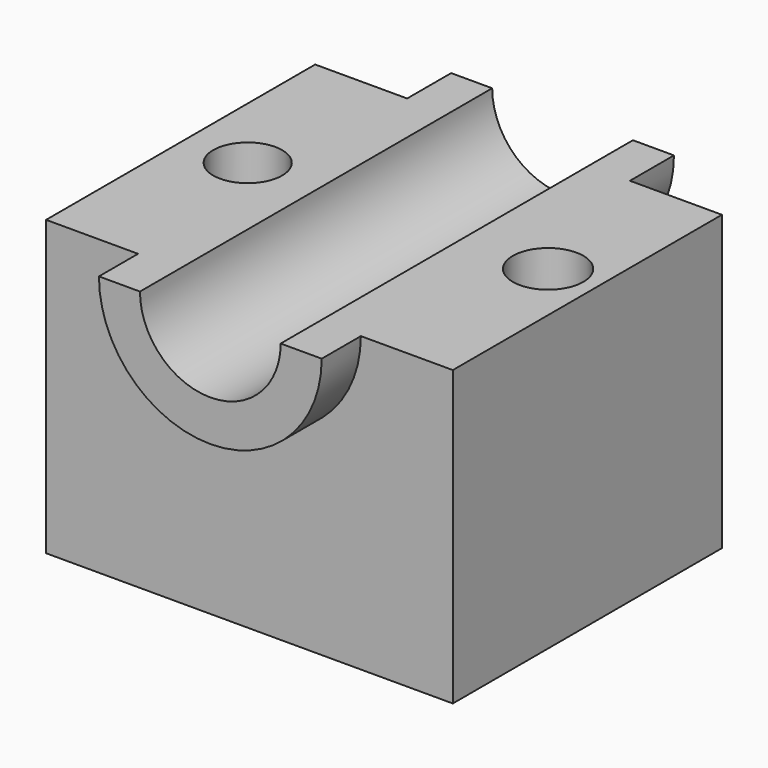
from build123d import *

# Parameters (mm, degrees)
F0_W     = 105.5908799171
F0_H     = 87.321691215
F1_DEPTH = 76.2
F3_DEPTH = 101.6
F4_DEPTH = 12.7
F5_DEPTH = 127
F6_R     = 8.9460405917
F7_DEPTH = 101.6
F6_R_2   = 9.1609397995
F8_DEPTH = 127


with BuildPart() as f1:
    # F0 (on Top) → F1 (new body)
    with BuildSketch(Plane.XY):
        with Locations((3.3811926842, 4.9695521593)):
            Rectangle(F0_W, F0_H)
    extrude(amount=F1_DEPTH)

    # F2 (on face) → F3 (join)
    with BuildSketch(Plane.XZ.offset(38.6912934482)):
        with BuildLine():
            ThreePointArc((-14.8835639872, 76.2), (3.3811926842, 57.9352433286), (21.6459493555, 76.2))
            Line((21.6459493555, 76.2), (-14.8835639872, 76.2))
        make_face()
        with BuildLine():
            ThreePointArc((-25.5366911298, 76.2), (3.3811926842, 47.282116186), (32.2990764981, 76.2))
            Line((32.2990764981, 76.2), (21.6459493555, 76.2))
            ThreePointArc((21.6459493555, 76.2), (3.3811926842, 57.9352433286), (-14.8835639872, 76.2))
            Line((-14.8835639872, 76.2), (-25.5366911298, 76.2))
        make_face()
    extrude(amount=-F3_DEPTH)

    # F2 (on face) → F4 (join)
    with BuildSketch(Plane.XZ.offset(38.6912934482)):
        with BuildLine():
            ThreePointArc((-25.5366911298, 76.2), (3.3811926842, 47.282116186), (32.2990764981, 76.2))
            Line((32.2990764981, 76.2), (21.6459493555, 76.2))
            ThreePointArc((21.6459493555, 76.2), (3.3811926842, 57.9352433286), (-14.8835639872, 76.2))
            Line((-14.8835639872, 76.2), (-25.5366911298, 76.2))
        make_face()
    extrude(amount=F4_DEPTH)

    # F5 (cut): a face of the model
    f5_faces = [f1.faces().sort_by_distance(p)[0] for p in [
        (3.3811926842, -38.6912934482, 68.4481965103),
    ]]
    extrude(f5_faces, amount=-F5_DEPTH, mode=Mode.SUBTRACT)

    # F6 (on face) → F7 (cut)
    with BuildSketch(Plane.XY.offset(76.2)):
        with Locations((-33.1366732717, 6.3863405958)):
            Circle(F6_R)
    extrude(amount=-F7_DEPTH, mode=Mode.SUBTRACT)

    # F6 (on face) → F8 (cut)
    with BuildSketch(Plane.XY.offset(76.2)):
        with Locations((43.499417603, 8.0732982606)):
            Circle(F6_R_2)
    extrude(amount=-F8_DEPTH, mode=Mode.SUBTRACT)


solid = f1.part
